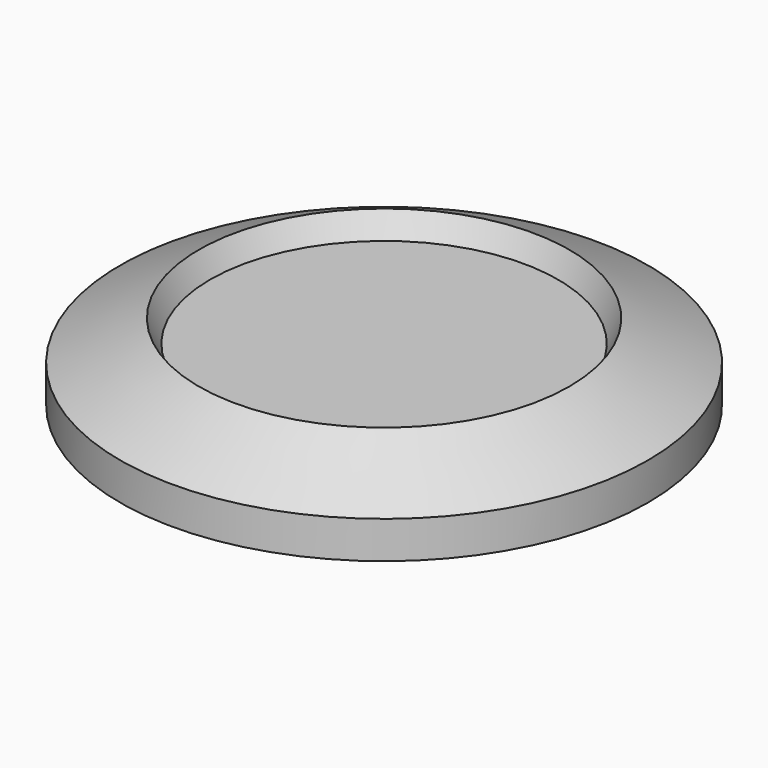
from build123d import *

# Parameters (mm, degrees)
F3_R   = 15
F3_R_2 = 13.9409809878


with BuildPart() as f2:
    # F1 (on Front) → F2 (revolve)
    with BuildSketch(Plane.XZ):
        Polygon((10.5278659504, 3.3541053007), (9.8855143504, 2.0694048376), (0, 2.0694048376), (0, -1), (13.9409809878, -1), (15, 1.1180335124), align=None)
    revolve(axis=Axis((0, 0, 3.5065211123), (0, 0, -1)))

    # F3 (on face) → F4 (join, up to the next surface of F2)
    with BuildSketch(Plane(origin=(0, 0, -1), x_dir=(1, 0, 0), z_dir=(0, 0, -1))):
        Circle(F3_R)
        Circle(F3_R_2, mode=Mode.SUBTRACT)
    extrude(until=Until.NEXT, dir=(0, 0, 1))


solid = f2.part
